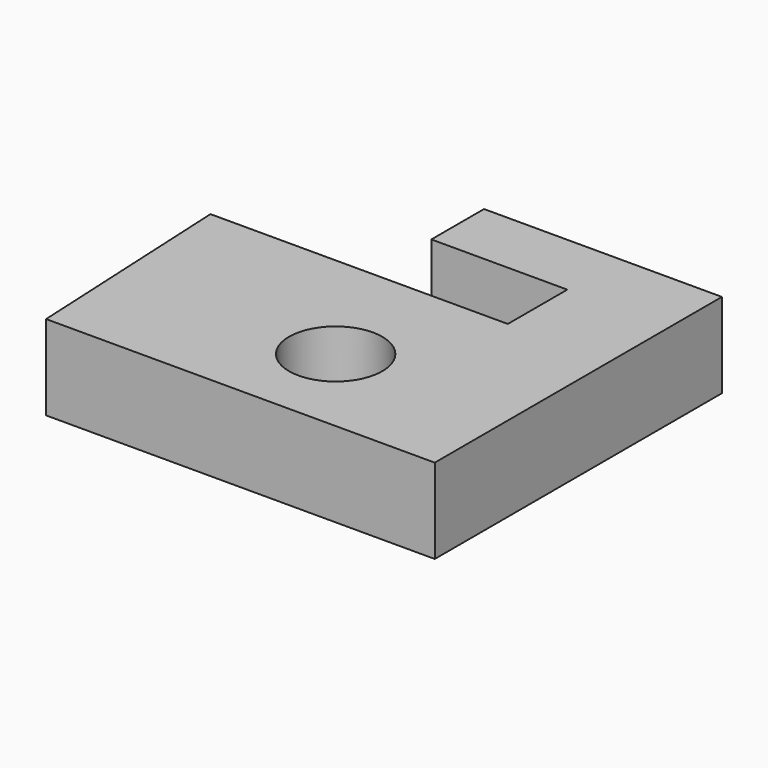
from build123d import *

# Parameters (mm, degrees)
F1_DEPTH = 10
F3_D     = 11


with BuildPart() as f1:
    # F0 (on Top) → F1 (new body)
    with BuildSketch(Plane.XY):
        Polygon((-26.416933, 0), (-25.164945, -25.790939), (20.657791, -25.790939), (20.657791, 16.526233), (-7.386724, 16.526233), (-7.386724, 8.763911), (8.638713, 8.763911), (8.638713, 0), (0, 0), align=None)
    extrude(amount=F1_DEPTH)

    # F3 (through all)
    with Locations(Plane.XY.offset(10)):
        with Locations((0, -14.57391)):
            Hole(F3_D / 2)


solid = f1.part
